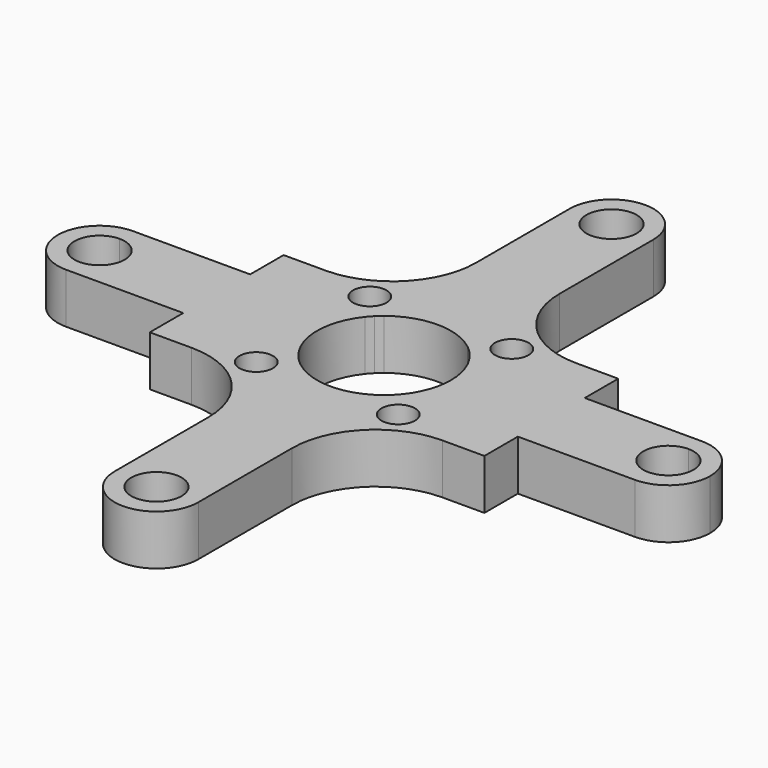
from build123d import *

# Parameters (mm, degrees)
F0_R     = 1
F1_DEPTH = 3


with BuildPart() as f1:
    # F0 (on Top) → F1 (new body)
    with BuildSketch(Plane.XY):
        with BuildLine():
            ThreePointArc((-1.5, 17), (0, 18.5), (1.5, 17))
            Line((1.5, 17), (2.5, 17))
            ThreePointArc((2.5, 17), (0, 19.5), (-2.5, 17))
            Line((-2.5, 17), (-1.5, 17))
        make_face()
        with BuildLine():
            Line((2.5, 17), (1.5, 17))
            ThreePointArc((1.5, 17), (0, 15.5), (-1.5, 17))
            Line((-1.5, 17), (-2.5, 17))
            ThreePointArc((-2.5, 17), (0, 14.5), (2.5, 17))
        make_face()
        with BuildLine():
            Line((2.5, 10), (2.5, 17))
            ThreePointArc((2.5, 17), (0, 14.5), (-2.5, 17))
            Line((-2.5, 17), (-2.5, 10))
            ThreePointArc((-2.5, 10), (-3.9644660941, 6.4644660941), (-7.5, 5))
            Line((-7.5, 5), (-10, 5))
            Line((-10, 5), (-10, 2.5))
            Line((-10, 2.5), (-3.1224989992, 2.5))
            ThreePointArc((-3.1224989992, 2.5), (-2.979991028, 2.6682678787), (-2.8284271247, 2.8284271247))
            ThreePointArc((-2.8284271247, 2.8284271247), (-2.6682678787, 2.979991028), (-2.5, 3.1224989992))
            ThreePointArc((-2.5, 3.1224989992), (0, 4), (2.5, 3.1224989992))
            ThreePointArc((2.5, 3.1224989992), (2.8284271247, 2.8284271247), (3.1224989992, 2.5))
            Line((3.1224989992, 2.5), (10, 2.5))
            Line((10, 2.5), (10, 5))
            Line((10, 5), (7.5, 5))
            ThreePointArc((7.5, 5), (3.9644660941, 6.4644660941), (2.5, 10))
        make_face()
        with BuildLine():
            ThreePointArc((-3.2426406871, 4.2426406871), (-3.3187611546, 3.8599572548), (-3.5355339059, 3.5355339059))
            ThreePointArc((-3.5355339059, 3.5355339059), (-5.1665202196, 4.6253241195), (-3.2426406871, 4.2426406871))
        make_face(mode=Mode.SUBTRACT)
        with Locations((4.2426406871, 4.2426406871)):
            Circle(F0_R, mode=Mode.SUBTRACT)
        with BuildLine():
            Line((17, 2.5), (10, 2.5))
            Line((10, 2.5), (10, -2.5))
            Line((10, -2.5), (17, -2.5))
            ThreePointArc((17, -2.5), (14.5, 0), (17, 2.5))
        make_face()
        with BuildLine():
            Line((10, -2.5), (10, 2.5))
            Line((10, 2.5), (3.1224989992, 2.5))
            ThreePointArc((3.1224989992, 2.5), (3.7742546282, 1.3247648854), (4, 0))
            ThreePointArc((4, 0), (3.7742546282, -1.3247648854), (3.1224989992, -2.5))
            Line((3.1224989992, -2.5), (10, -2.5))
        make_face()
        with BuildLine():
            Line((10, -5), (10, -2.5))
            Line((10, -2.5), (3.1224989992, -2.5))
            ThreePointArc((3.1224989992, -2.5), (2.8284271247, -2.8284271247), (2.5, -3.1224989992))
            ThreePointArc((2.5, -3.1224989992), (0, -4), (-2.5, -3.1224989992))
            ThreePointArc((-2.5, -3.1224989992), (-2.8284271247, -2.8284271247), (-3.1224989992, -2.5))
            Line((-3.1224989992, -2.5), (-10, -2.5))
            Line((-10, -2.5), (-10, -5))
            Line((-10, -5), (-7.5, -5))
            ThreePointArc((-7.5, -5), (-3.9644660941, -6.4644660941), (-2.5, -10))
            Line((-2.5, -10), (-2.5, -17))
            ThreePointArc((-2.5, -17), (0, -14.5), (2.5, -17))
            Line((2.5, -17), (2.5, -10))
            ThreePointArc((2.5, -10), (3.9644660941, -6.4644660941), (7.5, -5))
            Line((7.5, -5), (10, -5))
        make_face()
        with Locations((-4.2426406871, -4.2426406871)):
            Circle(F0_R, mode=Mode.SUBTRACT)
        with Locations((4.2426406871, -4.2426406871)):
            Circle(F0_R, mode=Mode.SUBTRACT)
        with BuildLine():
            ThreePointArc((19.5, 0), (18.767766953, 1.767766953), (17, 2.5))
            Line((17, 2.5), (17, 1.5))
            ThreePointArc((17, 1.5), (18.0606601718, 1.0606601718), (18.5, 0))
            ThreePointArc((18.5, 0), (18.0606601718, -1.0606601718), (17, -1.5))
            Line((17, -1.5), (17, -2.5))
            ThreePointArc((17, -2.5), (18.767766953, -1.767766953), (19.5, 0))
        make_face()
        with BuildLine():
            Line((17, 1.5), (17, 2.5))
            ThreePointArc((17, 2.5), (14.5, 0), (17, -2.5))
            Line((17, -2.5), (17, -1.5))
            ThreePointArc((17, -1.5), (15.5, 0), (17, 1.5))
        make_face()
        with BuildLine():
            Line((-3.1224989992, 2.5), (-10, 2.5))
            Line((-10, 2.5), (-10, -2.5))
            Line((-10, -2.5), (-3.1224989992, -2.5))
            ThreePointArc((-3.1224989992, -2.5), (-4, 0), (-3.1224989992, 2.5))
        make_face()
        with BuildLine():
            Line((-10, -2.5), (-10, 2.5))
            Line((-10, 2.5), (-17, 2.5))
            ThreePointArc((-17, 2.5), (-15.232233047, 1.767766953), (-14.5, 0))
            ThreePointArc((-14.5, 0), (-15.232233047, -1.767766953), (-17, -2.5))
            Line((-17, -2.5), (-10, -2.5))
        make_face()
        with BuildLine():
            ThreePointArc((-14.5, 0), (-15.232233047, 1.767766953), (-17, 2.5))
            Line((-17, 2.5), (-17, 1.5))
            ThreePointArc((-17, 1.5), (-15.9393398282, 1.0606601718), (-15.5, 0))
            ThreePointArc((-15.5, 0), (-15.9393398282, -1.0606601718), (-17, -1.5))
            Line((-17, -1.5), (-17, -2.5))
            ThreePointArc((-17, -2.5), (-15.232233047, -1.767766953), (-14.5, 0))
        make_face()
        with BuildLine():
            Line((-17, 1.5), (-17, 2.5))
            ThreePointArc((-17, 2.5), (-19.5, 0), (-17, -2.5))
            Line((-17, -2.5), (-17, -1.5))
            ThreePointArc((-17, -1.5), (-18.5, 0), (-17, 1.5))
        make_face()
        with BuildLine():
            ThreePointArc((-2.5, -17), (0, -19.5), (2.5, -17))
            Line((2.5, -17), (1.5, -17))
            ThreePointArc((1.5, -17), (0, -18.5), (-1.5, -17))
            Line((-1.5, -17), (-2.5, -17))
        make_face()
        with BuildLine():
            Line((1.5, -17), (2.5, -17))
            ThreePointArc((2.5, -17), (0, -14.5), (-2.5, -17))
            Line((-2.5, -17), (-1.5, -17))
            ThreePointArc((-1.5, -17), (0, -15.5), (1.5, -17))
        make_face()
    extrude(amount=F1_DEPTH)


solid = f1.part
